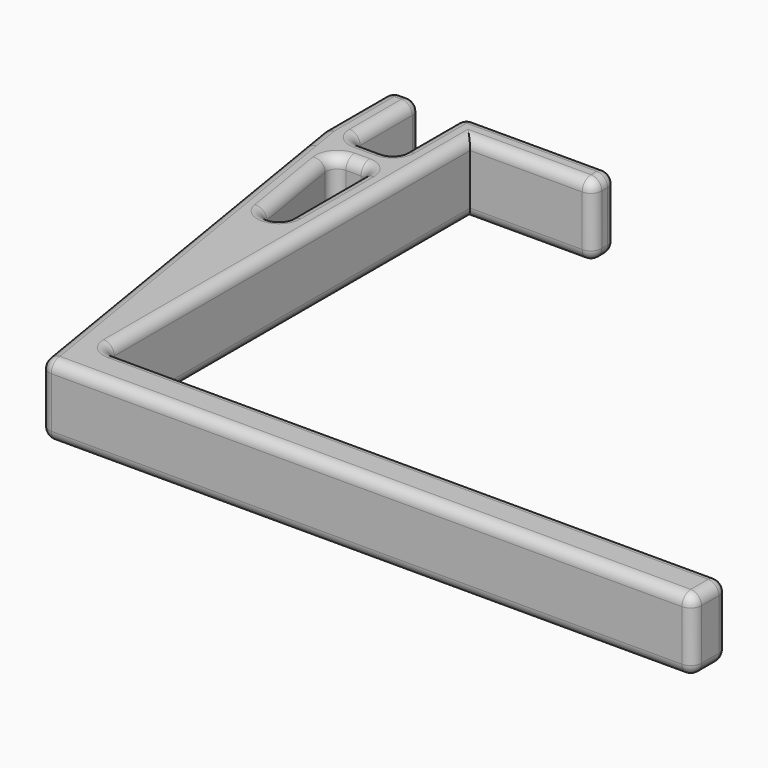
from build123d import *

# Parameters (mm, degrees)
F0_W     = 4
F0_H     = 12
F1_DEPTH = 10
F2_R     = 1.5


with BuildPart() as f1:
    # F0 (on Top) → F1 (new body)
    with BuildSketch(Plane.XY):
        with Locations((-8, 67)):
            Rectangle(F0_W, F0_H)
        Polygon((-10, 61), (-9.344262, 57), (-5.344262, 57), (0, 57), (4, 57), (4, 69), (21, 69), (21, 73), (4, 73), (0, 73), (0, 69), (0, 65), (0, 61), (-6, 61), align=None)
        Polygon((-9.344262, 57), (0, 0), (90, 0), (90, 6), (4, 6), (4, 57), (0, 57), (0, 24.4), (-5.344262, 57), align=None)
    extrude(amount=-F1_DEPTH)

    # F2
    f2_edges = [f1.edges().sort_by_distance(p)[0] for p in [
        (-6, 61, -5),
        (0, 61, -5),
        (0, 24.4, -5),
        (4, 6, -5),
        (-10, 61, -5),
        (0, 0, -5),
        (90, 6, -5),
        (90, 0, -5),
        (21, 69, -5),
        (21, 73, -5),
        (0, 73, -5),
        (-6, 73, -5),
        (-10, 73, -5),
        (0, 57, -5),
        (-5.344262, 57, -5),
        (-10, 67, 0),
        (-5, 30.5, 0),
        (45, 0, 0),
        (90, 3, 0),
        (47, 6, 0),
        (4, 37.5, 0),
        (12.5, 69, 0),
        (21, 71, 0),
        (10.5, 73, 0),
        (0, 67, 0),
        (-3, 61, 0),
        (-6, 67, 0),
        (-8, 73, 0),
        (-2.672131, 57, 0),
        (0, 40.7, 0),
        (-2.672131, 40.7, 0),
        (-10, 67, -10),
        (-5, 30.5, -10),
        (45, 0, -10),
        (90, 3, -10),
        (47, 6, -10),
        (4, 37.5, -10),
        (12.5, 69, -10),
        (21, 71, -10),
        (10.5, 73, -10),
        (0, 67, -10),
        (-3, 61, -10),
        (-6, 67, -10),
        (-8, 73, -10),
        (-2.672131, 57, -10),
        (0, 40.7, -10),
        (-2.672131, 40.7, -10),
    ]]
    fillet(f2_edges, radius=F2_R)


solid = f1.part
